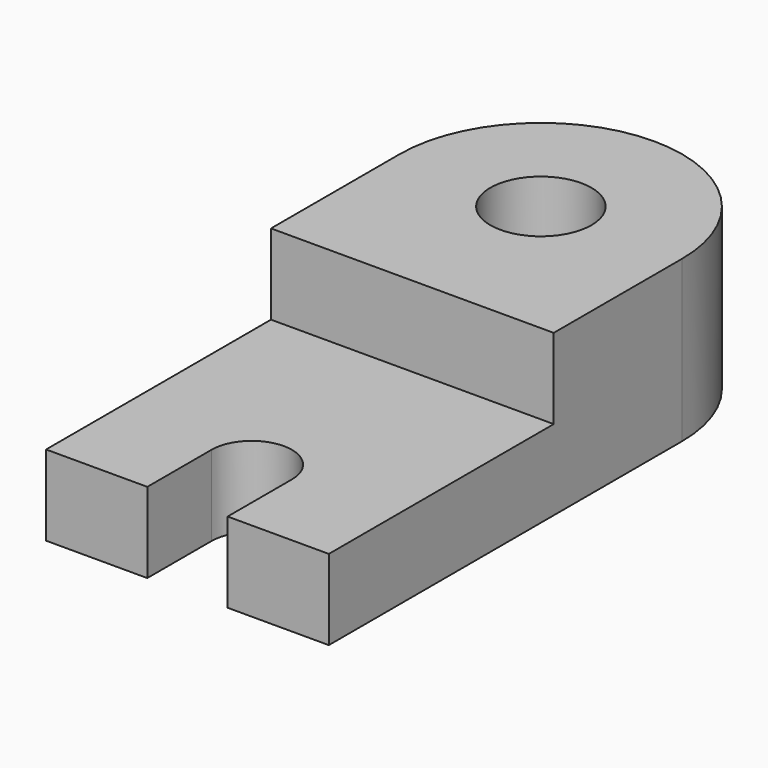
from build123d import *

# Parameters (mm, degrees)
F0_R     = 8.001
F1_DEPTH = 12.7
F2_R     = 8.001
F3_DEPTH = 12.7


with BuildPart() as f1:
    # F0 (on Top) → F1 (new body)
    with BuildSketch(Plane.XY):
        with BuildLine():
            Line((-16.002, 0), (0, 0))
            Line((0, 0), (0, 12.7))
            ThreePointArc((0, 12.7), (6.35, 19.05), (12.7, 12.7))
            Line((12.7, 12.7), (12.7, 0))
            Line((12.7, 0), (28.702, 0))
            Line((28.702, 0), (28.702, 44.45))
            Line((28.702, 44.45), (28.702, 69.85))
            ThreePointArc((28.702, 69.85), (6.35, 92.202), (-16.002, 69.85))
            Line((-16.002, 69.85), (-16.002, 44.45))
            Line((-16.002, 44.45), (-16.002, 0))
        make_face()
        with Locations((6.35, 69.85)):
            Circle(F0_R, mode=Mode.SUBTRACT)
    extrude(amount=F1_DEPTH)

    # F2 (on face) → F3 (join)
    with BuildSketch(Plane.XY.offset(12.7)):
        with BuildLine():
            Line((-16.002, 69.85), (-16.002, 44.45))
            Line((-16.002, 44.45), (28.702, 44.45))
            Line((28.702, 44.45), (28.702, 69.85))
            ThreePointArc((28.702, 69.85), (6.35, 92.202), (-16.002, 69.85))
        make_face()
        with Locations((6.35, 69.85)):
            Circle(F2_R, mode=Mode.SUBTRACT)
    extrude(amount=F3_DEPTH)


solid = f1.part
